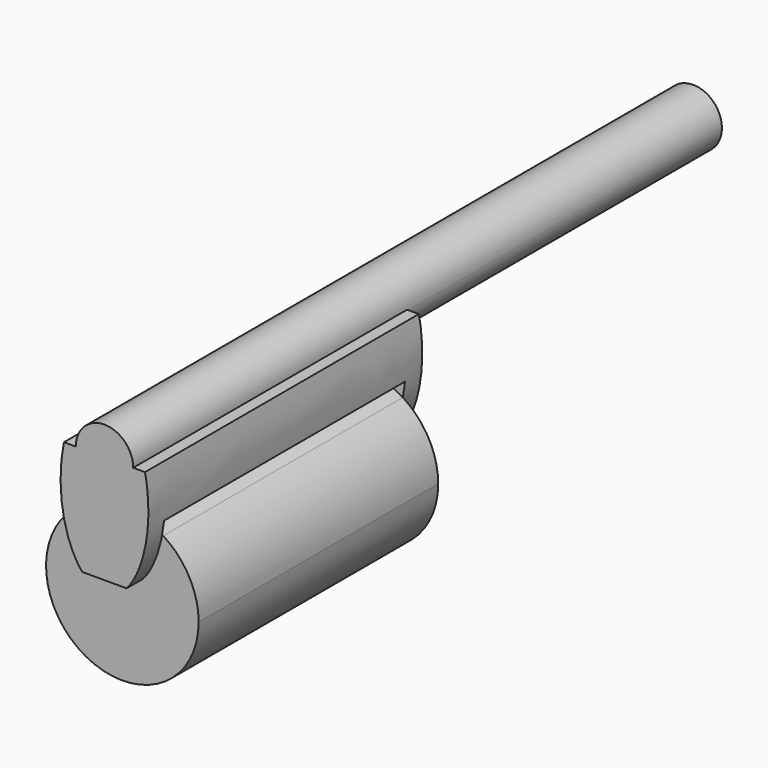
from build123d import *

# Parameters (mm, degrees)
F1_DEPTH = 200
F3_R     = 16.7976843787
F4_DEPTH = 430
F6_W     = 175.9967375547
F6_H     = 67.8384676576
F7_DEPTH = 100
F9_DEPTH = 175


with BuildPart() as f1:
    # F0 (on Front) → F1 (new body)
    with BuildSketch(Plane.XZ):
        with BuildLine():
            add(Edge.make_bspline(
                [(-23.6778533361, 19.5495877862), (-32.3621949462, -21.3626975394), (-12.9401370946, -43.7215901911)],
                knots=[1.1743261985, 1.1743261985, 1.1743261985, 2.6132353561, 2.6132353561, 2.6132353561], degree=2, weights=[1, 0.7521652597, 1]))
            Line((-12.9401370946, -43.7215901911), (12.9401370946, -43.7215901911))
            add(Edge.make_bspline(
                [(12.9401370946, -43.7215901911), (32.3621949462, -21.3626975394), (23.6778533361, 19.5495877862)],
                knots=[3.6699499511, 3.6699499511, 3.6699499511, 5.1088591087, 5.1088591087, 5.1088591087], degree=2, weights=[1, 0.7521652597, 1]))
            Line((23.6778533361, 19.5495877862), (-23.6778533361, 19.5495877862))
        make_face()
    extrude(amount=F1_DEPTH)

    # F3 (on offset) → F4 (join)
    with BuildSketch(Plane.XZ.offset(-230)):
        with Locations((0, 19.52576451)):
            Circle(F3_R)
    extrude(amount=F4_DEPTH)

    # F6 (on offset) → F7 (cut)
    with BuildSketch(Plane.YZ.offset(-30)):
        with Locations((-99.9427214265, -43.750282377)):
            Rectangle(F6_W, F6_H)
    extrude(amount=F7_DEPTH, mode=Mode.SUBTRACT)

    # F8 (on face) → F9 (join)
    with BuildSketch(Plane.XZ.offset(11.9443526492)):
        with BuildLine():
            ThreePointArc((-23.9079126368, -18.4283503945), (-21.4691661744, -95.1354199868), (44.5844215941, -56.0605488718))
            ThreePointArc((44.5844215941, -56.0605488718), (39.0748711148, -34.591382697), (23.907912636, -18.428350394))
            add(Edge.make_bspline(
                [(23.907912636, -18.428350394), (23.7403211383, -19.2740561298), (23.5629806702, -20.1178270573), (23.375722619, -20.959489825), (23.1783610081, -21.7988580379), (22.9706905105, -22.6357318329), (22.7524836933, -23.4698972976), (22.5234871985, -24.301125666), (21.8162555534, -26.7404941038), (21.3073183679, -28.3392219433), (20.754454425, -29.9239250097), (20.1551733117, -31.4923659659), (19.5066312989, -33.0414940382), (18.8054862218, -34.5673766033), (18.0477798353, -36.0651478958), (16.7672298185, -38.3517175377), (16.2868400055, -39.1637140236), (15.7860476096, -39.9635970623), (15.2638749499, -40.7499882648), (14.7193047849, -41.5211878034), (14.1512732931, -42.2751690498), (13.5586431482, -43.0095590272), (12.9401370946, -43.7215901911)],
                knots=[0.2378023461, 0.2378023461, 0.2378023461, 0.2378023461, 0.2378023461, 0.2378023461, 0.2378023461, 0.2378023461, 0.2378023461, 0.4264523686, 0.4264523686, 0.4264523686, 0.4264523686, 0.4264523686, 0.4264523686, 0.4264523686, 0.7935523887, 0.7935523887, 0.7935523887, 0.7935523887, 0.7935523887, 0.7935523887, 0.7935523887, 1, 1, 1, 1, 1, 1, 1, 1, 1], degree=8))
            Line((12.9401370946, -43.7215901911), (-12.9401370946, -43.7215901911))
            add(Edge.make_bspline(
                [(-12.9401370946, -43.7215901911), (-13.5586431482, -43.0095590272), (-14.1512732931, -42.2751690498), (-14.7193047849, -41.5211878034), (-15.2638749499, -40.7499882648), (-15.7860476096, -39.9635970623), (-16.2868400055, -39.1637140236), (-16.7672298185, -38.3517175377), (-18.043616681, -36.0725816877), (-18.7977894386, -34.5825873298), (-19.4959463044, -33.0647358798), (-20.1419918652, -31.5238279251), (-20.7392245037, -29.9637460227), (-21.2904531713, -28.3875056791), (-21.7981390661, -26.7973221406), (-22.507625983, -24.3586134522), (-22.739531347, -23.5193487447), (-22.9604201458, -22.6770764585), (-23.17055429, -21.8320330534), (-23.3701686358, -20.9844394656), (-23.5594750148, -20.1345019592), (-23.7386651299, -19.2824127385), (-23.9079126368, -18.4283503945)],
                knots=[0, 0, 0, 0, 0, 0, 0, 0, 0, 0.2064476064, 0.2064476064, 0.2064476064, 0.2064476064, 0.2064476064, 0.2064476064, 0.2064476064, 0.5716829759, 0.5716829759, 0.5716829759, 0.5716829759, 0.5716829759, 0.5716829759, 0.5716829759, 0.7621973133, 0.7621973133, 0.7621973133, 0.7621973133, 0.7621973133, 0.7621973133, 0.7621973133, 0.7621973133, 0.7621973133], degree=8))
        make_face()
        with BuildLine():
            add(Edge.make_bspline(
                [(23.907912636, -18.428350394), (23.7403211383, -19.2740561298), (23.5629806702, -20.1178270573), (23.375722619, -20.959489825), (23.1783610081, -21.7988580379), (22.9706905105, -22.6357318329), (22.7524836933, -23.4698972976), (22.5234871985, -24.301125666), (21.8162555534, -26.7404941038), (21.3073183679, -28.3392219433), (20.754454425, -29.9239250097), (20.1551733117, -31.4923659659), (19.5066312989, -33.0414940382), (18.8054862218, -34.5673766033), (18.0477798353, -36.0651478958), (16.7672298185, -38.3517175377), (16.2868400055, -39.1637140236), (15.7860476096, -39.9635970623), (15.2638749499, -40.7499882648), (14.7193047849, -41.5211878034), (14.1512732931, -42.2751690498), (13.5586431482, -43.0095590272), (12.9401370946, -43.7215901911)],
                knots=[0.2378023461, 0.2378023461, 0.2378023461, 0.2378023461, 0.2378023461, 0.2378023461, 0.2378023461, 0.2378023461, 0.2378023461, 0.4264523686, 0.4264523686, 0.4264523686, 0.4264523686, 0.4264523686, 0.4264523686, 0.4264523686, 0.7935523887, 0.7935523887, 0.7935523887, 0.7935523887, 0.7935523887, 0.7935523887, 0.7935523887, 1, 1, 1, 1, 1, 1, 1, 1, 1], degree=8))
            ThreePointArc((23.907912636, -18.428350394), (-5e-10, -11.4761272777), (-23.9079126368, -18.4283503945))
            add(Edge.make_bspline(
                [(-12.9401370946, -43.7215901911), (-13.5586431482, -43.0095590272), (-14.1512732931, -42.2751690498), (-14.7193047849, -41.5211878034), (-15.2638749499, -40.7499882648), (-15.7860476096, -39.9635970623), (-16.2868400055, -39.1637140236), (-16.7672298185, -38.3517175377), (-18.043616681, -36.0725816877), (-18.7977894386, -34.5825873298), (-19.4959463044, -33.0647358798), (-20.1419918652, -31.5238279251), (-20.7392245037, -29.9637460227), (-21.2904531713, -28.3875056791), (-21.7981390661, -26.7973221406), (-22.507625983, -24.3586134522), (-22.739531347, -23.5193487447), (-22.9604201458, -22.6770764585), (-23.17055429, -21.8320330534), (-23.3701686358, -20.9844394656), (-23.5594750148, -20.1345019592), (-23.7386651299, -19.2824127385), (-23.9079126368, -18.4283503945)],
                knots=[0, 0, 0, 0, 0, 0, 0, 0, 0, 0.2064476064, 0.2064476064, 0.2064476064, 0.2064476064, 0.2064476064, 0.2064476064, 0.2064476064, 0.5716829759, 0.5716829759, 0.5716829759, 0.5716829759, 0.5716829759, 0.5716829759, 0.5716829759, 0.7621973133, 0.7621973133, 0.7621973133, 0.7621973133, 0.7621973133, 0.7621973133, 0.7621973133, 0.7621973133, 0.7621973133], degree=8))
            Line((-12.9401370946, -43.7215901911), (12.9401370946, -43.7215901911))
        make_face()
    extrude(amount=F9_DEPTH)


solid = f1.part
